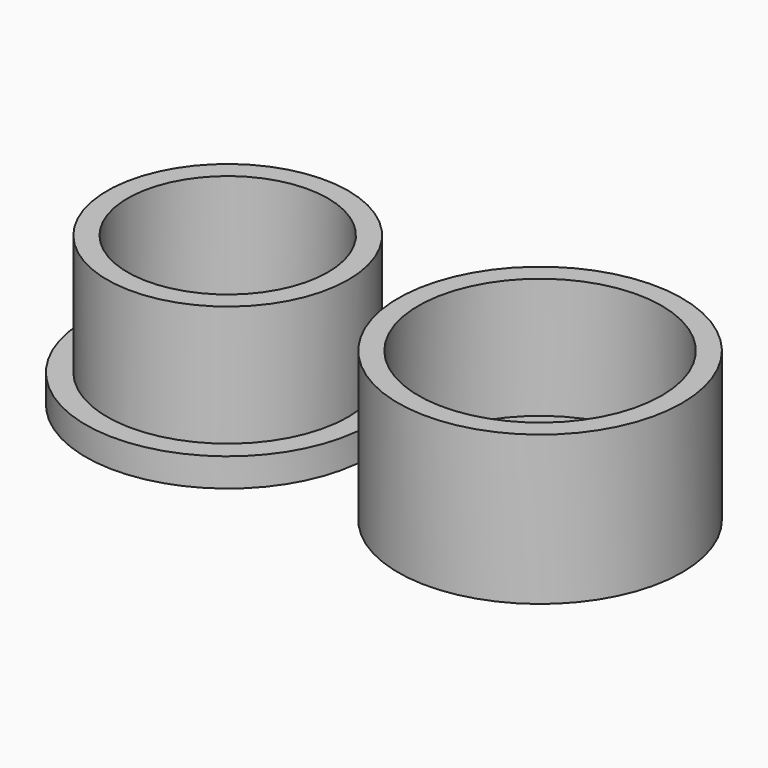
from build123d import *

# Parameters (mm, degrees)
F0_R     = 25.4
F0_R_2   = 21.5695083881
F1_DEPTH = 5.08
F0_R_3   = 17.9165244299
F0_R_4   = 1.8999444821
F0_R_5   = 21.7662801058
F2_DEPTH = 26.67


with BuildPart() as f1:
    # F0 (on Top) → F1 (new body)
    with BuildSketch(Plane.XY):
        with Locations((-55.8756738901, 0)):
            Circle(F0_R)
        with Locations((-55.8756738901, 0)):
            Circle(F0_R_2, mode=Mode.SUBTRACT)
    extrude(amount=F1_DEPTH)



with BuildPart() as f1b:
    # F0 (on Top) → F1, piece 2 (new body)
    with BuildSketch(Plane.XY):
        with Locations((-55.8756738901, 0)):
            Circle(F0_R_3)
        with BuildLine():
            ThreePointArc((-42.9180390286, 0.4998475098), (-43.5030868354, -0.8727294607), (-44.8984308655, -1.4011833506))
            ThreePointArc((-44.8984308655, -1.4011833506), (-46.6374994085, -6.0925619776), (-50.2649955772, -9.5385254663))
            ThreePointArc((-50.2649955772, -9.5385254663), (-50.1261037465, -9.9386040135), (-50.0790310525, -10.3594816039))
            ThreePointArc((-50.0790310525, -10.3594816039), (-51.7247158978, -12.2468128152), (-53.8185414385, -10.873425646))
            ThreePointArc((-53.8185414385, -10.873425646), (-58.8141191908, -10.669054242), (-63.2098923558, -8.2868823269))
            ThreePointArc((-63.2098923558, -8.2868823269), (-66.0184599642, -8.0936456242), (-65.583577107, -5.3122306364))
            ThreePointArc((-65.583577107, -5.3122306364), (-66.9308347254, -0.4965864577), (-66.0207593295, 4.420454799))
            ThreePointArc((-66.0207593295, 4.420454799), (-66.7020520383, 7.1417071115), (-63.9322896574, 7.5864432761))
            ThreePointArc((-63.9322896574, 7.5864432761), (-59.7709391989, 10.3580928446), (-54.814433277, 11.0153051508))
            ThreePointArc((-54.814433277, 11.0153051508), (-52.7606948422, 12.571759666), (-51.0235619246, 10.6684043541))
            ThreePointArc((-51.0235619246, 10.6684043541), (-51.0536663645, 10.3305117104), (-51.1430313522, 10.0032631582))
            ThreePointArc((-51.1430313522, 10.0032631582), (-47.2230641754, 6.8989509585), (-45.0696713275, 2.3861030613))
            ThreePointArc((-45.0696713275, 2.3861030613), (-43.5664286824, 1.930536291), (-42.9180390286, 0.4998475098))
        make_face(mode=Mode.SUBTRACT)
        with BuildLine():
            Line((-50.9350880397, -8.7692402404), (-45.8683256021, -1.0883475238))
            ThreePointArc((-45.8683256021, -1.0883475238), (-46.721339171, 0.4139091517), (-46.0073767864, 1.9870159444))
            Line((-46.0073767864, 1.9870159444), (-51.7427348474, 9.1744457592))
            ThreePointArc((-51.7427348474, 9.1744457592), (-53.4427884153, 8.8258199568), (-54.7240990294, 9.9962750793))
            Line((-54.7240990294, 9.9962750793), (-63.3313047494, 6.7629523896))
            ThreePointArc((-63.3313047494, 6.7629523896), (-63.2403689162, 6.43374639), (-63.2097281442, 6.0935889868))
            ThreePointArc((-63.2097281442, 6.0935889868), (-63.737172426, 4.7783997961), (-65.0271954994, 4.1920888312))
            Line((-65.0271954994, 4.1920888312), (-64.6118342647, -4.9943612776))
            ThreePointArc((-64.6118342647, -4.9943612776), (-63.2058815293, -5.5216586264), (-62.6156177027, -6.9023592468))
            ThreePointArc((-62.6156177027, -6.9023592468), (-62.6328642478, -7.1584501308), (-62.6842924156, -7.4099160882))
            Line((-62.6842924156, -7.4099160882), (-53.8206765155, -9.8532202213))
            ThreePointArc((-53.8206765155, -9.8532202213), (-52.6540399711, -8.5760898483), (-50.9350880397, -8.7692402404))
        make_face()
        with Locations((-55.8756738901, 0)):
            Circle(F0_R_4, mode=Mode.SUBTRACT)
        with BuildLine():
            Line((-63.3313047494, 6.7629523896), (-54.7240990294, 9.9962750793))
            ThreePointArc((-54.7240990294, 9.9962750793), (-54.8387121188, 10.4996339188), (-54.814433277, 11.0153051508))
            ThreePointArc((-54.814433277, 11.0153051508), (-59.7709391989, 10.3580928446), (-63.9322896574, 7.5864432761))
            ThreePointArc((-63.9322896574, 7.5864432761), (-63.5756396547, 7.2156816977), (-63.3313047494, 6.7629523896))
        make_face()
        with BuildLine():
            ThreePointArc((-46.0073767864, 1.9870159444), (-45.5657414969, 2.250510307), (-45.0696713275, 2.3861030613))
            ThreePointArc((-45.0696713275, 2.3861030613), (-47.2230641754, 6.8989509585), (-51.1430313522, 10.0032631582))
            ThreePointArc((-51.1430313522, 10.0032631582), (-51.3863999535, 9.547985215), (-51.7427348474, 9.1744457592))
            Line((-51.7427348474, 9.1744457592), (-46.0073767864, 1.9870159444))
        make_face()
        with BuildLine():
            ThreePointArc((-50.2649955772, -9.5385254663), (-46.6374994085, -6.0925619776), (-44.8984308655, -1.4011833506))
            ThreePointArc((-44.8984308655, -1.4011833506), (-45.4047134009, -1.3109115257), (-45.8683256021, -1.0883475238))
            Line((-45.8683256021, -1.0883475238), (-50.9350880397, -8.7692402404))
            ThreePointArc((-50.9350880397, -8.7692402404), (-50.5475880265, -9.1081925388), (-50.2649955772, -9.5385254663))
        make_face()
        with BuildLine():
            ThreePointArc((-53.8185414385, -10.873425646), (-53.8891717752, -10.3634685141), (-53.8206765155, -9.8532202213))
            Line((-53.8206765155, -9.8532202213), (-62.6842924156, -7.4099160882))
            ThreePointArc((-62.6842924156, -7.4099160882), (-62.8873210495, -7.8842224917), (-63.2098923558, -8.2868823269))
            ThreePointArc((-63.2098923558, -8.2868823269), (-58.8141191908, -10.669054242), (-53.8185414385, -10.873425646))
        make_face()
        with BuildLine():
            ThreePointArc((-66.0207593295, 4.420454799), (-66.9308347254, -0.4965864577), (-65.583577107, -5.3122306364))
            ThreePointArc((-65.583577107, -5.3122306364), (-65.119370689, -5.0870649374), (-64.6118342647, -4.9943612776))
            Line((-64.6118342647, -4.9943612776), (-65.0271954994, 4.1920888312))
            ThreePointArc((-65.0271954994, 4.1920888312), (-65.5395507173, 4.2385162272), (-66.0207593295, 4.420454799))
        make_face()
    extrude(amount=F1_DEPTH)


with BuildPart() as f1c:
    # F0 (on Top) → F1, piece 3 (new body)
    with BuildSketch(Plane.XY):
        Circle(F0_R_5)
        with BuildLine():
            ThreePointArc((17.0437249965, 0), (-12.249120047, -11.851059861), (0.5628653418, 17.0344282077))
            ThreePointArc((0.5628653418, 17.0344282077), (12.249120047, 11.851059861), (17.0437249965, 0))
        make_face(mode=Mode.SUBTRACT)
        with BuildLine():
            ThreePointArc((17.0437249965, 0), (12.249120047, 11.851059861), (0.5628653418, 17.0344282077))
            ThreePointArc((0.5628653418, 17.0344282077), (-12.249120047, -11.851059861), (17.0437249965, 0))
        make_face()
        with BuildLine():
            ThreePointArc((14.1394823593, 5.3999324972), (14.8844344027, 2.7455135907), (15.1355288102, 0))
            ThreePointArc((15.1355288102, 0), (14.7853483033, -3.2369287782), (13.7510105622, -6.3240762869))
            ThreePointArc((13.7510105622, -6.3240762869), (14.4812815096, -7.0224583708), (14.7500617516, -7.9965170822))
            ThreePointArc((14.7500617516, -7.9965170822), (13.7205046851, -9.6850248325), (11.7479725774, -9.5430274381))
            ThreePointArc((11.7479725774, -9.5430274381), (7.1330393359, -13.3493064313), (1.4038502627, -15.0702832357))
            ThreePointArc((1.4038502627, -15.0702832357), (1.4044898794, -15.0987748681), (1.4047031009, -15.1272728815))
            ThreePointArc((1.4047031009, -15.1272728815), (-0.5912203018, -17.0296303772), (-2.3956307115, -14.9447377313))
            ThreePointArc((-2.3956307115, -14.9447377313), (-7.9957915093, -12.8511303201), (-12.3483347465, -8.752306059))
            ThreePointArc((-12.3483347465, -8.752306059), (-15.0319691418, -8.0288445743), (-14.1409473103, -5.3960950262))
            ThreePointArc((-14.1409473103, -5.3960950262), (-15.1272575957, 0.5003099004), (-13.7535005067, 6.3186593655))
            ThreePointArc((-13.7535005067, 6.3186593655), (-14.4683838881, 9.003156974), (-11.7442127316, 9.5476541453))
            ThreePointArc((-11.7442127316, 9.5476541453), (-7.1320210827, 13.3498504726), (-1.4074873018, 15.0699439899))
            ThreePointArc((-1.4074873018, 15.0699439899), (-0.8474371078, 16.478582189), (0.5628653418, 17.0344282077))
            ThreePointArc((0.5628653418, 17.0344282077), (1.8712451677, 16.4541041252), (2.4080436961, 15.1272728815))
            ThreePointArc((2.4080436961, 15.1272728815), (2.4058408562, 15.0356101903), (2.3992374224, 14.9441591317))
            ThreePointArc((2.3992374224, 14.9441591317), (7.9990858151, 12.8490800638), (12.3507095542, 8.7489545588))
            ThreePointArc((12.3507095542, 8.7489545588), (14.276915165, 8.7920819724), (15.25268326, 7.1307557992))
            ThreePointArc((15.25268326, 7.1307557992), (14.9503574402, 6.1018042032), (14.1394823593, 5.3999324972))
        make_face(mode=Mode.SUBTRACT)
        with BuildLine():
            ThreePointArc((-12.9136020504, 6.0922234779), (-13.3466466766, 6.1568678287), (-13.7535005067, 6.3186593655))
            ThreePointArc((-13.7535005067, 6.3186593655), (-15.1272575957, 0.5003099004), (-14.1409473103, -5.3960950262))
            ThreePointArc((-14.1409473103, -5.3960950262), (-13.7241230272, -5.2614674838), (-13.2875726635, -5.2255392478))
            Line((-13.2875726635, -5.2255392478), (-12.9136020504, 6.0922234779))
        make_face()
        with BuildLine():
            Line((-11.1700506129, 8.8941707948), (-1.1833063334, 14.2282701977))
            ThreePointArc((-1.1833063334, 14.2282701977), (-1.3440629783, 14.6361447952), (-1.4074873018, 15.0699439899))
            ThreePointArc((-1.4074873018, 15.0699439899), (-7.1320210827, 13.3498504726), (-11.7442127316, 9.5476541453))
            ThreePointArc((-11.7442127316, 9.5476541453), (-11.4193389676, 9.2541178139), (-11.1700506129, 8.8941707948))
        make_face()
        with BuildLine():
            Line((12.913405553, -6.0981702314), (13.287708047, 5.2296364629))
            ThreePointArc((13.287708047, 5.2296364629), (11.6726995628, 6.2345983862), (11.735517876, 8.1357177225))
            Line((11.735517876, 8.1357177225), (2.1199835936, 14.1191202367))
            ThreePointArc((2.1199835936, 14.1191202367), (0.4368297505, 13.2201175529), (-1.1833063334, 14.2282701977))
            Line((-1.1833063334, 14.2282701977), (-11.1700506129, 8.8941707948))
            ThreePointArc((-11.1700506129, 8.8941707948), (-11.0023756104, 8.4591925552), (-10.9453459502, 7.9965170822))
            ThreePointArc((-10.9453459502, 7.9965170822), (-11.5258385171, 6.6271772589), (-12.9136020504, 6.0922234779))
            Line((-12.9136020504, 6.0922234779), (-13.2875726635, -5.2255392478))
            ThreePointArc((-13.2875726635, -5.2255392478), (-11.9805228639, -5.8052733604), (-11.4442700093, -7.1307557992))
            ThreePointArc((-11.4442700093, -7.1307557992), (-11.5176231478, -7.6544724109), (-11.7320372754, -8.1378835755))
            Line((-11.7320372754, -8.1378835755), (-2.1168883519, -14.1210462948))
            ThreePointArc((-2.1168883519, -14.1210462948), (-0.4369501448, -13.2237611399), (1.1800906973, -14.2299877266))
            Line((1.1800906973, -14.2299877266), (11.1752989012, -8.8913675898))
            ThreePointArc((11.1752989012, -8.8913675898), (11.2380256037, -6.9930207389), (12.913405553, -6.0981702314))
        make_face()
        with BuildLine():
            ThreePointArc((8.8762749903, -0.4998475098), (8.1712010171, -1.9792107249), (6.5780331416, -2.3632171711))
            ThreePointArc((6.5780331416, -2.3632171711), (4.5751603709, -5.2842428966), (1.3975881678, -6.8485080655))
            ThreePointArc((1.3975881678, -6.8485080655), (1.4005871339, -6.9101026941), (1.4015871399, -6.9717621787))
            ThreePointArc((1.4015871399, -6.9717621787), (-0.6972538547, -8.8629217337), (-2.3602928308, -6.5790830032))
            ThreePointArc((-2.3602928308, -6.5790830032), (-5.2832188869, -4.5763428197), (-6.8485037959, -1.3976090896))
            ThreePointArc((-6.8485037959, -1.3976090896), (-8.8683497002, 0.635825262), (-6.5790757926, 2.3603129295))
            ThreePointArc((-6.5790757926, 2.3603129295), (-4.5784050374, 5.2814318819), (-1.4029768879, 6.8474061704))
            ThreePointArc((-1.4029768879, 6.8474061704), (0.4376363894, 8.8776307161), (2.4067311206, 6.9717621787))
            ThreePointArc((2.4067311206, 6.9717621787), (2.3963875972, 6.7734170195), (2.3654692397, 6.5772236305))
            ThreePointArc((2.3654692397, 6.5772236305), (5.2840092295, 4.5754302391), (6.8478861246, 1.4006323697))
            ThreePointArc((6.8478861246, 1.4006323697), (8.2739229824, 0.8899532999), (8.8762749903, -0.4998475098))
        make_face(mode=Mode.SUBTRACT)
        with BuildLine():
            ThreePointArc((13.7510105622, -6.3240762869), (14.7853483033, -3.2369287782), (15.1355288102, 0))
            ThreePointArc((15.1355288102, 0), (14.8844344027, 2.7455135907), (14.1394823593, 5.3999324972))
            ThreePointArc((14.1394823593, 5.3999324972), (13.7234461499, 5.2655127315), (13.287708047, 5.2296364629))
            Line((13.287708047, 5.2296364629), (12.913405553, -6.0981702314))
            ThreePointArc((12.913405553, -6.0981702314), (13.3452784499, -6.1626614059), (13.7510105622, -6.3240762869))
        make_face()
        with BuildLine():
            ThreePointArc((11.735517876, 8.1357177225), (12.0076404086, 8.4779225269), (12.3507095542, 8.7489545588))
            ThreePointArc((12.3507095542, 8.7489545588), (7.9990858151, 12.8490800638), (2.3992374224, 14.9441591317))
            ThreePointArc((2.3992374224, 14.9441591317), (2.3073148275, 14.5154930347), (2.1199835936, 14.1191202367))
            Line((2.1199835936, 14.1191202367), (11.735517876, 8.1357177225))
        make_face()
        with BuildLine():
            ThreePointArc((-2.3956307115, -14.9447377313), (-2.3038985308, -14.5167706763), (-2.1168883519, -14.1210462948))
            Line((-2.1168883519, -14.1210462948), (-11.7320372754, -8.1378835755))
            ThreePointArc((-11.7320372754, -8.1378835755), (-12.0046546806, -8.480734576), (-12.3483347465, -8.752306059))
            ThreePointArc((-12.3483347465, -8.752306059), (-7.9957915093, -12.8511303201), (-2.3956307115, -14.9447377313))
        make_face()
        with BuildLine():
            ThreePointArc((1.4038502627, -15.0702832357), (7.1330393359, -13.3493064313), (11.7479725774, -9.5430274381))
            ThreePointArc((11.7479725774, -9.5430274381), (11.4239322352, -9.2503310641), (11.1752989012, -8.8913675898))
            Line((11.1752989012, -8.8913675898), (1.1800906973, -14.2299877266))
            ThreePointArc((1.1800906973, -14.2299877266), (1.3405697918, -14.637194128), (1.4038502627, -15.0702832357))
        make_face()
        with BuildLine():
            ThreePointArc((1.3975881678, -6.8485080655), (4.5751603709, -5.2842428966), (6.5780331416, -2.3632171711))
            ThreePointArc((6.5780331416, -2.3632171711), (6.0046916272, -2.1405618657), (5.5322108109, -1.7467881293))
            Line((5.5322108109, -1.7467881293), (0.9373771884, -5.7268369224))
            ThreePointArc((0.9373771884, -5.7268369224), (1.2592791184, -6.2500092894), (1.3975881678, -6.8485080655))
        make_face()
        with BuildLine():
            ThreePointArc((-2.3602928308, -6.5790830032), (-2.1380173554, -6.0064366977), (-1.7447727662, -5.5345374805))
            Line((-1.7447727662, -5.5345374805), (-5.7268230718, -0.9373931784))
            ThreePointArc((-5.7268230718, -0.9373931784), (-6.249999916, -1.2592981385), (-6.8485037959, -1.3976090896))
            ThreePointArc((-6.8485037959, -1.3976090896), (-5.2832188869, -4.5763428197), (-2.3602928308, -6.5790830032))
        make_face()
        with BuildLine():
            Line((-5.5345214905, 1.7447866167), (-0.9414958582, 5.7232693271))
            ThreePointArc((-0.9414958582, 5.7232693271), (-1.2641778363, 6.2475939087), (-1.4029768879, 6.8474061704))
            ThreePointArc((-1.4029768879, 6.8474061704), (-4.5784050374, 5.2814318819), (-6.5790757926, 2.3603129295))
            ThreePointArc((-6.5790757926, 2.3603129295), (-6.0064247068, 2.1380348437), (-5.5345214905, 1.7447866167))
        make_face()
        with BuildLine():
            Line((1.7483403615, 5.5304188107), (5.7248215592, 0.939703858))
            ThreePointArc((5.7248215592, 0.939703858), (6.2486450641, 1.2620465528), (6.8478861246, 1.4006323697))
            ThreePointArc((6.8478861246, 1.4006323697), (5.2840092295, 4.5754302391), (2.3654692397, 6.5772236305))
            ThreePointArc((2.3654692397, 6.5772236305), (2.1425213939, 6.003347177), (1.7483403615, 5.5304188107))
        make_face()
        with BuildLine():
            ThreePointArc((5.5322108109, -1.7467881293), (5.0721254769, -0.3636511436), (5.7248215592, 0.939703858))
            Line((5.7248215592, 0.939703858), (1.7483403615, 5.5304188107))
            ThreePointArc((1.7483403615, 5.5304188107), (0.3634816019, 5.0697607475), (-0.9414958582, 5.7232693271))
            Line((-0.9414958582, 5.7232693271), (-5.5345214905, 1.7447866167))
            ThreePointArc((-5.5345214905, 1.7447866167), (-5.1901359799, 1.1641834666), (-5.0703063744, 0.4998475098))
            ThreePointArc((-5.0703063744, 0.4998475098), (-5.242205752, -0.2901959969), (-5.7268230718, -0.9373931784))
            Line((-5.7268230718, -0.9373931784), (-1.7447727662, -5.5345374805))
            ThreePointArc((-1.7447727662, -5.5345374805), (-0.3638712704, -5.0751957577), (0.9373771884, -5.7268369224))
            Line((0.9373771884, -5.7268369224), (5.5322108109, -1.7467881293))
        make_face()
    extrude(amount=F1_DEPTH)

    # F0 (on Top) → F2, piece 2 (join)
    with BuildSketch(Plane.XY):
        Circle(F0_R)
        Circle(F0_R_5, mode=Mode.SUBTRACT)
    extrude(amount=F2_DEPTH)


with BuildPart() as f1_1:
    add(f1.part)

    add(f1b.part)  # F2 merges F1b
    # F0 (on Top) → F2 (join)
    with BuildSketch(Plane.XY):
        with Locations((-55.8756738901, 0)):
            Circle(F0_R_2)
        with Locations((-55.8756738901, 0)):
            Circle(F0_R_3, mode=Mode.SUBTRACT)
    extrude(amount=F2_DEPTH)


solid = Compound([f1c.part, f1_1.part])
